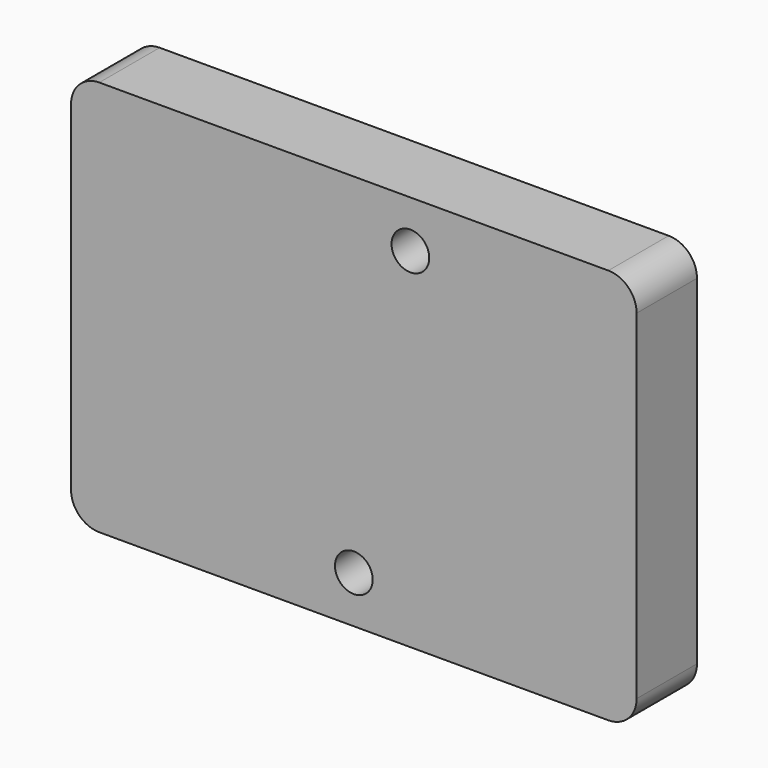
from build123d import *

# Parameters (mm, degrees)
F0_W      = 5
F0_H      = 2.8
F1_DEPTH  = 6.3
F2_W      = 46
F2_H      = 23
F3_DEPTH  = 16
F5_W      = 4
F5_H      = 7.5
F6_DEPTH  = 25
F9_R      = 1.5
F10_W     = 46
F10_H     = 42
F11_DEPTH = 3
F13_R     = 3
F14_W     = 60
F14_H     = 42
F15_DEPTH = 8
F16_R     = 3


with BuildPart() as f1:
    # F0 (on Front) → F1 (new body, symmetric)
    with BuildSketch(Plane.XZ):
        with Locations((14, 6.1)):
            Rectangle(F0_W, F0_H)
        with Locations((-14, 6.1)):
            Rectangle(F0_W, F0_H)
        Polygon((-11.5, -11.5), (11.5, -11.5), (11.5, 4.7), (11.5, 7.5), (11.5, 11.5), (-11.5, 11.5), (-11.5, 7.5), (-11.5, 4.7), align=None)
    extrude(amount=F1_DEPTH, both=True)


with BuildPart() as f3:
    # F2 (on Front) → F3 (new body)
    with BuildSketch(Plane.XZ):
        Rectangle(F2_W, F2_H)
    extrude(amount=F3_DEPTH)


with BuildPart() as f3_1:
    # F4: moved
    add(f3.part.moved(Location((0, 9.75, 0))))


with BuildPart() as f6:
    # F5 (on Front) → F6 (new body)
    with BuildSketch(Plane.XZ):
        with Locations((13.5, -7.75)):
            Rectangle(F5_W, F5_H)
    extrude(amount=F6_DEPTH)


with BuildPart() as f6_1:
    # F7: moved
    add(f6.part.moved(Location((0, 4, 0))))


with BuildPart() as f3_2:
    add(f3_1.part)

    # F8: cut F6, F1
    add(f6_1.part, mode=Mode.SUBTRACT)
    add(f1.part, mode=Mode.SUBTRACT)

    # F9
    f9_edges = [f3_2.edges().sort_by_distance(p)[0] for p in [
        (-23, -6.25, 0),
        (23, -6.25, 0),
        (23, 1.75, 11.5),
        (-23, 1.75, 11.5),
        (-17.25, -6.25, 11.5),
        (17.25, -6.25, 11.5),
        (23, 1.75, -11.5),
        (19.25, -6.25, -11.5),
        (-23, 1.75, -11.5),
        (-17.25, -6.25, -11.5),
    ]]
    fillet(f9_edges, radius=F9_R)


with BuildPart() as f11:
    # F10 (on Front) → F11 (new body)
    with BuildSketch(Plane.XZ):
        Rectangle(F10_W, F10_H)
        with BuildLine():
            Line((-18, -14), (0, -14))
            Line((0, -14), (18, -14))
            ThreePointArc((18, -14), (20, -16), (18, -18))
            Line((18, -18), (-18, -18))
            ThreePointArc((-18, -18), (-20, -16), (-18, -14))
        make_face(mode=Mode.SUBTRACT)
        with BuildLine():
            Line((18, 14), (0, 14))
            Line((0, 14), (-18, 14))
            ThreePointArc((-18, 14), (-20, 16), (-18, 18))
            Line((-18, 18), (18, 18))
            ThreePointArc((18, 18), (20, 16), (18, 14))
        make_face(mode=Mode.SUBTRACT)
    extrude(amount=F11_DEPTH)


with BuildPart() as f11_1:
    # F12: moved
    add(f11.part.moved(Location((0, 12, 0))))

    # F13
    f13_edges = [f11_1.edges().sort_by_distance(p)[0] for p in [
        (-23, 10.5, 21),
        (23, 10.5, 21),
        (23, 10.5, -21),
        (-23, 10.5, -21),
    ]]
    fillet(f13_edges, radius=F13_R)


with BuildPart() as f15:
    # F14 (on Front) → F15 (new body)
    with BuildSketch(Plane.XZ):
        Rectangle(F14_W, F14_H)
        with BuildLine():
            ThreePointArc((2, -16), (-1.4142135624, -17.4142135624), (0, -14))
            ThreePointArc((0, -14), (1.4142135624, -14.5857864376), (2, -16))
        make_face(mode=Mode.SUBTRACT)
        with BuildLine():
            ThreePointArc((8, 16), (6, 14), (4, 16))
            ThreePointArc((4, 16), (6, 18), (8, 16))
        make_face(mode=Mode.SUBTRACT)
    extrude(amount=F15_DEPTH)

    # F16
    f16_edges = [f15.edges().sort_by_distance(p)[0] for p in [
        (30, -4, -21),
        (-30, -4, -21),
        (-30, -4, 21),
        (30, -4, 21),
    ]]
    fillet(f16_edges, radius=F16_R)


solid = f15.part
